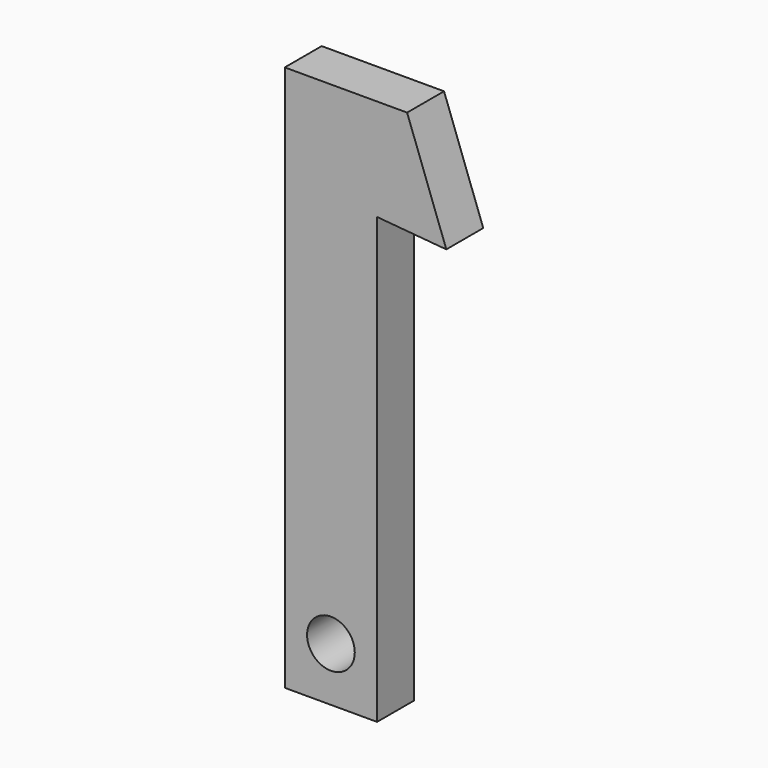
from build123d import *

# Parameters (mm, degrees)
F1_DEPTH = 762
F2_R     = 393.7
F3_DEPTH = 1016


with BuildPart() as f1:
    # F0 (on Front) → F1 (new body)
    with BuildSketch(Plane.XZ):
        Polygon((0, 9017), (0, 0), (1524, 0), (1524, 7338.999542), (2667, 7239), (2019.860923, 9017), align=None)
    extrude(amount=F1_DEPTH)

    # F2 (on face) → F3 (cut)
    with BuildSketch(Plane.XZ.offset(762)):
        with Locations((762, 889)):
            Circle(F2_R)
    extrude(amount=-F3_DEPTH, mode=Mode.SUBTRACT)


solid = f1.part
